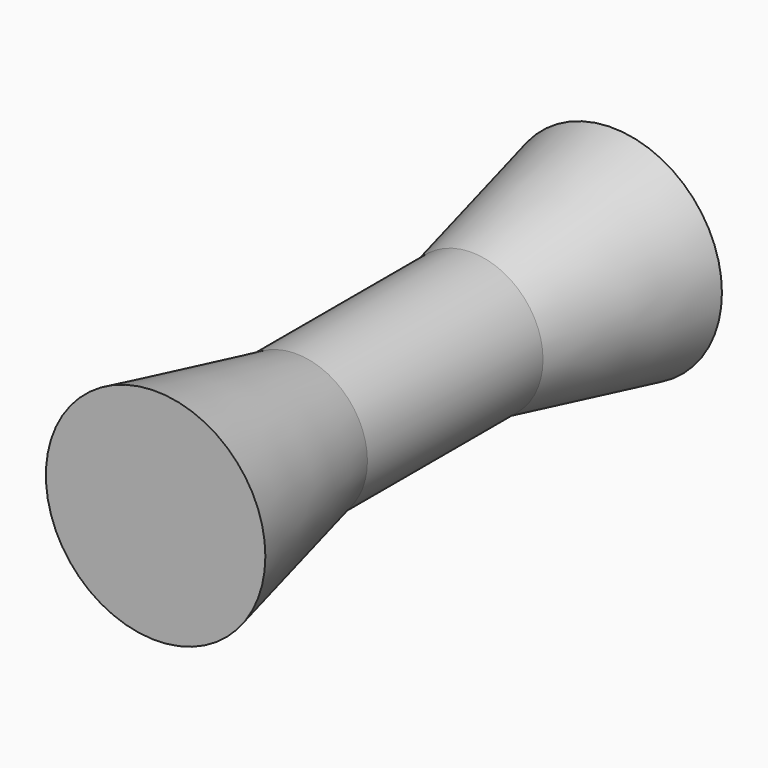
from build123d import *

# Parameters (mm, degrees)
F0_R      = 127
F2_R      = 82.55
F4_R      = 82.55
F5_DEPTH  = 254
F5_FACE_R = 82.55
F7_R      = 127


with BuildPart() as f3:
    # F0 (on Front) → F3 section 0
    with BuildSketch(Plane.XZ):
        Circle(F0_R)
    # F2 (on offset) → F3 section 1
    with BuildSketch(Plane.XZ.offset(-203.2)):
        Circle(F2_R)
    loft()

    # F4 (on offset) → F5 (join)
    with BuildSketch(Plane.XZ.offset(-203.2)):
        Circle(F4_R)
    extrude(amount=-F5_DEPTH)

    # F5_face (on face) → F8 section 0
    with BuildSketch(Plane(origin=(0, 457.2, 0), x_dir=(1, 0, 0), z_dir=(0, 1, 0))):
        Circle(F5_FACE_R)
    # F7 (on offset) → F8 section 1
    with BuildSketch(Plane.XZ.offset(-660.4)):
        Circle(F7_R)
    loft()


solid = f3.part
